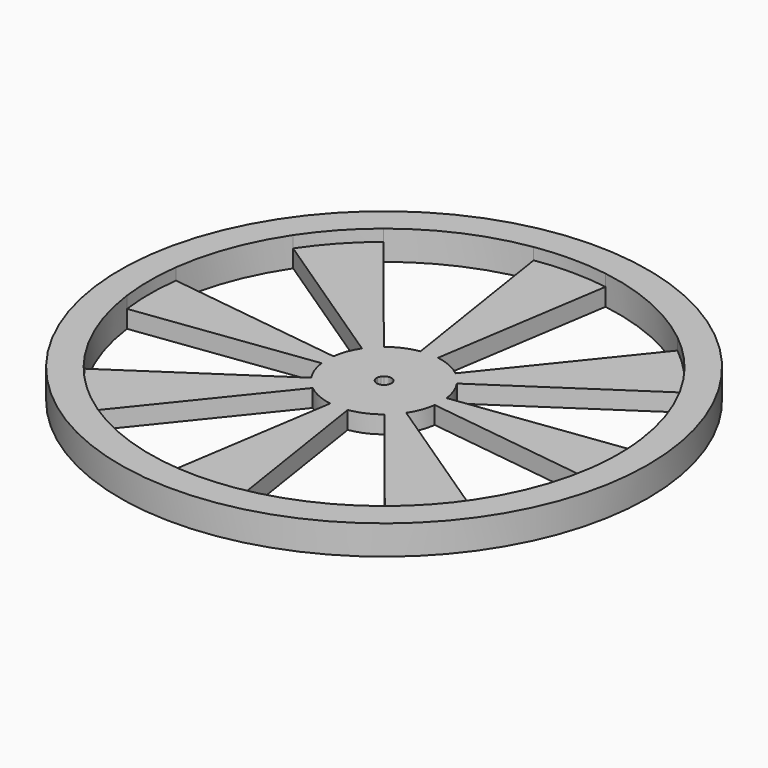
from build123d import *

# Parameters (mm, degrees)
F0_R     = 57.15
F1_DEPTH = 6.35
F2_DEPTH = 3.81


with BuildPart() as f1:
    # F0 (on Top) → F1 (new body)
    with BuildSketch(Plane.XY):
        Circle(F0_R)
        with BuildLine():
            ThreePointArc((50.3653989578, 6.6307305648), (50.6912333005, 3.3224789649), (50.8, 0))
            ThreePointArc((50.8, 0), (50.6912333005, -3.3224789649), (50.3653989578, -6.6307305648))
            ThreePointArc((50.3653989578, -6.6307305648), (47.547955486, -17.8838454786), (42.2510665707, -28.2043857164))
            ThreePointArc((42.2510665707, -28.2043857164), (37.479329155, -34.2919799092), (31.8386895146, -39.5845658053))
            ThreePointArc((31.8386895146, -39.5845658053), (20.505293032, -46.4776608455), (7.7737455542, -50.2016820441))
            ThreePointArc((7.7737455542, -50.2016820441), (0, -50.8), (-7.7737455542, -50.2016820441))
            ThreePointArc((-7.7737455542, -50.2016820441), (-20.505293032, -46.4776608455), (-31.8386895146, -39.5845658053))
            ThreePointArc((-31.8386895146, -39.5845658053), (-37.479329155, -34.2919799092), (-42.2510665707, -28.2043857164))
            ThreePointArc((-42.2510665707, -28.2043857164), (-47.547955486, -17.8838454786), (-50.3653989578, -6.6307305648))
            ThreePointArc((-50.3653989578, -6.6307305648), (-50.8, 0), (-50.3653989578, 6.6307305648))
            ThreePointArc((-50.3653989578, 6.6307305648), (-47.547955486, 17.8838454786), (-42.2510665707, 28.2043857164))
            ThreePointArc((-42.2510665707, 28.2043857164), (-37.479329155, 34.2919799092), (-31.8386895146, 39.5845658053))
            ThreePointArc((-31.8386895146, 39.5845658053), (-20.505293032, 46.4776608455), (-7.7737455542, 50.2016820441))
            ThreePointArc((-7.7737455542, 50.2016820441), (0, 50.8), (7.7737455542, 50.2016820441))
            ThreePointArc((7.7737455542, 50.2016820441), (20.505293032, 46.4776608455), (31.8386895146, 39.5845658053))
            ThreePointArc((31.8386895146, 39.5845658053), (37.479329155, 34.2919799092), (42.2510665707, 28.2043857164))
            ThreePointArc((42.2510665707, 28.2043857164), (47.547955486, 17.8838454786), (50.3653989578, 6.6307305648))
        make_face(mode=Mode.SUBTRACT)
    extrude(amount=F1_DEPTH)

    # F0 (on Top) → F2 (join)
    with BuildSketch(Plane.XY):
        Circle(F0_R)
        with BuildLine():
            ThreePointArc((50.3653989578, 6.6307305648), (50.6912333005, 3.3224789649), (50.8, 0))
            ThreePointArc((50.8, 0), (50.6912333005, -3.3224789649), (50.3653989578, -6.6307305648))
            ThreePointArc((50.3653989578, -6.6307305648), (47.547955486, -17.8838454786), (42.2510665707, -28.2043857164))
            ThreePointArc((42.2510665707, -28.2043857164), (37.479329155, -34.2919799092), (31.8386895146, -39.5845658053))
            ThreePointArc((31.8386895146, -39.5845658053), (20.505293032, -46.4776608455), (7.7737455542, -50.2016820441))
            ThreePointArc((7.7737455542, -50.2016820441), (0, -50.8), (-7.7737455542, -50.2016820441))
            ThreePointArc((-7.7737455542, -50.2016820441), (-20.505293032, -46.4776608455), (-31.8386895146, -39.5845658053))
            ThreePointArc((-31.8386895146, -39.5845658053), (-37.479329155, -34.2919799092), (-42.2510665707, -28.2043857164))
            ThreePointArc((-42.2510665707, -28.2043857164), (-47.547955486, -17.8838454786), (-50.3653989578, -6.6307305648))
            ThreePointArc((-50.3653989578, -6.6307305648), (-50.8, 0), (-50.3653989578, 6.6307305648))
            ThreePointArc((-50.3653989578, 6.6307305648), (-47.547955486, 17.8838454786), (-42.2510665707, 28.2043857164))
            ThreePointArc((-42.2510665707, 28.2043857164), (-37.479329155, 34.2919799092), (-31.8386895146, 39.5845658053))
            ThreePointArc((-31.8386895146, 39.5845658053), (-20.505293032, 46.4776608455), (-7.7737455542, 50.2016820441))
            ThreePointArc((-7.7737455542, 50.2016820441), (0, 50.8), (7.7737455542, 50.2016820441))
            ThreePointArc((7.7737455542, 50.2016820441), (20.505293032, 46.4776608455), (31.8386895146, 39.5845658053))
            ThreePointArc((31.8386895146, 39.5845658053), (37.479329155, 34.2919799092), (42.2510665707, 28.2043857164))
            ThreePointArc((42.2510665707, 28.2043857164), (47.547955486, 17.8838454786), (50.3653989578, 6.6307305648))
        make_face(mode=Mode.SUBTRACT)
        with BuildLine():
            Line((-7.7491279332, 9.6343746957), (-31.8386895146, 39.5845658053))
            ThreePointArc((-31.8386895146, 39.5845658053), (-37.479329155, 34.2919799092), (-42.2510665707, 28.2043857164))
            Line((-42.2510665707, 28.2043857164), (-10.2833667202, 6.8645850858))
            ThreePointArc((-10.2833667202, 6.8645850858), (-9.1219871452, 8.3462272929), (-7.7491279332, 9.6343746957))
        make_face()
        with BuildLine():
            Line((1.8920297832, 12.2184443691), (7.7737455542, 50.2016820441))
            ThreePointArc((7.7737455542, 50.2016820441), (0, 50.8), (-7.7737455542, 50.2016820441))
            Line((-7.7737455542, 50.2016820441), (-1.8920297832, 12.2184443691))
            ThreePointArc((-1.8920297832, 12.2184443691), (0, 12.3640672718), (1.8920297832, 12.2184443691))
        make_face()
        with BuildLine():
            Line((10.2833667202, 6.8645850858), (42.2510665707, 28.2043857164))
            ThreePointArc((42.2510665707, 28.2043857164), (37.479329155, 34.2919799092), (31.8386895146, 39.5845658053))
            Line((31.8386895146, 39.5845658053), (7.7491279332, 9.6343746957))
            ThreePointArc((7.7491279332, 9.6343746957), (9.1219871452, 8.3462272929), (10.2833667202, 6.8645850858))
        make_face()
        with BuildLine():
            ThreePointArc((50.3653989578, -6.6307305648), (50.6912333005, -3.3224789649), (50.8, 0))
            ThreePointArc((50.8, 0), (50.6912333005, 3.3224789649), (50.3653989578, 6.6307305648))
            Line((50.3653989578, 6.6307305648), (12.2582909623, 1.6138346213))
            ThreePointArc((12.2582909623, 1.6138346213), (12.3375948547, 0.8086486896), (12.3640672718, 0))
            ThreePointArc((12.3640672718, 0), (12.3375948547, -0.8086486896), (12.2582909623, -1.6138346213))
            Line((12.2582909623, -1.6138346213), (50.3653989578, -6.6307305648))
        make_face()
        with BuildLine():
            ThreePointArc((31.8386895146, -39.5845658053), (37.479329155, -34.2919799092), (42.2510665707, -28.2043857164))
            Line((42.2510665707, -28.2043857164), (10.2833667202, -6.8645850858))
            ThreePointArc((10.2833667202, -6.8645850858), (9.1219871452, -8.3462272929), (7.7491279332, -9.6343746957))
            Line((7.7491279332, -9.6343746957), (31.8386895146, -39.5845658053))
        make_face()
        with BuildLine():
            ThreePointArc((-7.7737455542, -50.2016820441), (0, -50.8), (7.7737455542, -50.2016820441))
            Line((7.7737455542, -50.2016820441), (1.8920297832, -12.2184443691))
            ThreePointArc((1.8920297832, -12.2184443691), (0, -12.3640672718), (-1.8920297832, -12.2184443691))
            Line((-1.8920297832, -12.2184443691), (-7.7737455542, -50.2016820441))
        make_face()
        with BuildLine():
            Line((-31.8386895146, -39.5845658053), (-7.7491279332, -9.6343746957))
            ThreePointArc((-7.7491279332, -9.6343746957), (-9.1219871452, -8.3462272929), (-10.2833667202, -6.8645850858))
            Line((-10.2833667202, -6.8645850858), (-42.2510665707, -28.2043857164))
            ThreePointArc((-42.2510665707, -28.2043857164), (-37.479329155, -34.2919799092), (-31.8386895146, -39.5845658053))
        make_face()
        with BuildLine():
            ThreePointArc((-12.2582909623, -1.6138346213), (-12.3640672718, 0), (-12.2582909623, 1.6138346213))
            Line((-12.2582909623, 1.6138346213), (-50.3653989578, 6.6307305648))
            ThreePointArc((-50.3653989578, 6.6307305648), (-50.8, 0), (-50.3653989578, -6.6307305648))
            Line((-50.3653989578, -6.6307305648), (-12.2582909623, -1.6138346213))
        make_face()
        with BuildLine():
            ThreePointArc((1.8920297832, -12.2184443691), (4.9907248519, -11.3120654592), (7.7491279332, -9.6343746957))
            Line((7.7491279332, -9.6343746957), (0.9949590473, -1.2370176814))
            ThreePointArc((0.9949590473, -1.2370176814), (0.6407904073, -1.4524269014), (0.2429295486, -1.5688025639))
            Line((0.2429295486, -1.5688025639), (1.8920297832, -12.2184443691))
        make_face()
        with BuildLine():
            ThreePointArc((10.2833667202, -6.8645850858), (11.5725614225, -4.3526982003), (12.2582909623, -1.6138346213))
            Line((12.2582909623, -1.6138346213), (1.5739187174, -0.2072103301))
            ThreePointArc((1.5739187174, -0.2072103301), (1.4858736089, -0.5588701712), (1.3203458303, -0.8813870536))
            Line((1.3203458303, -0.8813870536), (10.2833667202, -6.8645850858))
        make_face()
        with BuildLine():
            Line((1.5739187174, 0.2072103301), (12.2582909623, 1.6138346213))
            ThreePointArc((12.2582909623, 1.6138346213), (11.5725614225, 4.3526982003), (10.2833667202, 6.8645850858))
            Line((10.2833667202, 6.8645850858), (1.3203458303, 0.8813870536))
            ThreePointArc((1.3203458303, 0.8813870536), (1.4858736089, 0.5588701712), (1.5739187174, 0.2072103301))
        make_face()
        with BuildLine():
            Line((0.9949590473, 1.2370176814), (7.7491279332, 9.6343746957))
            ThreePointArc((7.7491279332, 9.6343746957), (4.9907248519, 11.3120654592), (1.8920297832, 12.2184443691))
            Line((1.8920297832, 12.2184443691), (0.2429295486, 1.5688025639))
            ThreePointArc((0.2429295486, 1.5688025639), (0.6407904073, 1.4524269014), (0.9949590473, 1.2370176814))
        make_face()
        with BuildLine():
            ThreePointArc((-0.9949590473, 1.2370176814), (-0.6407904073, 1.4524269014), (-0.2429295486, 1.5688025639))
            Line((-0.2429295486, 1.5688025639), (-1.8920297832, 12.2184443691))
            ThreePointArc((-1.8920297832, 12.2184443691), (-4.9907248519, 11.3120654592), (-7.7491279332, 9.6343746957))
            Line((-7.7491279332, 9.6343746957), (-0.9949590473, 1.2370176814))
        make_face()
        with BuildLine():
            Line((-12.2582909623, 1.6138346213), (-1.5739187174, 0.2072103301))
            ThreePointArc((-1.5739187174, 0.2072103301), (-1.4858736089, 0.5588701712), (-1.3203458303, 0.8813870536))
            Line((-1.3203458303, 0.8813870536), (-10.2833667202, 6.8645850858))
            ThreePointArc((-10.2833667202, 6.8645850858), (-11.5725614225, 4.3526982003), (-12.2582909623, 1.6138346213))
        make_face()
        with BuildLine():
            ThreePointArc((-0.2429295486, -1.5688025639), (-0.6407904073, -1.4524269014), (-0.9949590473, -1.2370176814))
            Line((-0.9949590473, -1.2370176814), (-7.7491279332, -9.6343746957))
            ThreePointArc((-7.7491279332, -9.6343746957), (-4.9907248519, -11.3120654592), (-1.8920297832, -12.2184443691))
            Line((-1.8920297832, -12.2184443691), (-0.2429295486, -1.5688025639))
        make_face()
        with BuildLine():
            Line((1.8920297832, -12.2184443691), (0.2429295486, -1.5688025639))
            ThreePointArc((0.2429295486, -1.5688025639), (0, -1.5875), (-0.2429295486, -1.5688025639))
            Line((-0.2429295486, -1.5688025639), (-1.8920297832, -12.2184443691))
            ThreePointArc((-1.8920297832, -12.2184443691), (0, -12.3640672718), (1.8920297832, -12.2184443691))
        make_face()
        with BuildLine():
            ThreePointArc((7.7491279332, -9.6343746957), (9.1219871452, -8.3462272929), (10.2833667202, -6.8645850858))
            Line((10.2833667202, -6.8645850858), (1.3203458303, -0.8813870536))
            ThreePointArc((1.3203458303, -0.8813870536), (1.1712290361, -1.0716243722), (0.9949590473, -1.2370176814))
            Line((0.9949590473, -1.2370176814), (7.7491279332, -9.6343746957))
        make_face()
        with BuildLine():
            ThreePointArc((12.3640672718, 0), (12.3375948547, 0.8086486896), (12.2582909623, 1.6138346213))
            Line((12.2582909623, 1.6138346213), (1.5739187174, 0.2072103301))
            ThreePointArc((1.5739187174, 0.2072103301), (1.5841010406, 0.1038274677), (1.5875, 0))
            ThreePointArc((1.5875, 0), (1.5841010406, -0.1038274677), (1.5739187174, -0.2072103301))
            Line((1.5739187174, -0.2072103301), (12.2582909623, -1.6138346213))
            ThreePointArc((12.2582909623, -1.6138346213), (12.3375948547, -0.8086486896), (12.3640672718, 0))
        make_face()
        with BuildLine():
            Line((1.3203458303, 0.8813870536), (10.2833667202, 6.8645850858))
            ThreePointArc((10.2833667202, 6.8645850858), (9.1219871452, 8.3462272929), (7.7491279332, 9.6343746957))
            Line((7.7491279332, 9.6343746957), (0.9949590473, 1.2370176814))
            ThreePointArc((0.9949590473, 1.2370176814), (1.1712290361, 1.0716243722), (1.3203458303, 0.8813870536))
        make_face()
        with BuildLine():
            Line((0.2429295486, 1.5688025639), (1.8920297832, 12.2184443691))
            ThreePointArc((1.8920297832, 12.2184443691), (0, 12.3640672718), (-1.8920297832, 12.2184443691))
            Line((-1.8920297832, 12.2184443691), (-0.2429295486, 1.5688025639))
            ThreePointArc((-0.2429295486, 1.5688025639), (0, 1.5875), (0.2429295486, 1.5688025639))
        make_face()
        with BuildLine():
            Line((-10.2833667202, 6.8645850858), (-1.3203458303, 0.8813870536))
            ThreePointArc((-1.3203458303, 0.8813870536), (-1.1712290361, 1.0716243722), (-0.9949590473, 1.2370176814))
            Line((-0.9949590473, 1.2370176814), (-7.7491279332, 9.6343746957))
            ThreePointArc((-7.7491279332, 9.6343746957), (-9.1219871452, 8.3462272929), (-10.2833667202, 6.8645850858))
        make_face()
        with BuildLine():
            Line((-7.7491279332, -9.6343746957), (-0.9949590473, -1.2370176814))
            ThreePointArc((-0.9949590473, -1.2370176814), (-1.1712290361, -1.0716243722), (-1.3203458303, -0.8813870536))
            Line((-1.3203458303, -0.8813870536), (-10.2833667202, -6.8645850858))
            ThreePointArc((-10.2833667202, -6.8645850858), (-9.1219871452, -8.3462272929), (-7.7491279332, -9.6343746957))
        make_face()
        with BuildLine():
            ThreePointArc((-1.5739187174, -0.2072103301), (-1.5875, 0), (-1.5739187174, 0.2072103301))
            Line((-1.5739187174, 0.2072103301), (-12.2582909623, 1.6138346213))
            ThreePointArc((-12.2582909623, 1.6138346213), (-12.3640672718, 0), (-12.2582909623, -1.6138346213))
            Line((-12.2582909623, -1.6138346213), (-1.5739187174, -0.2072103301))
        make_face()
        with BuildLine():
            Line((-10.2833667202, -6.8645850858), (-1.3203458303, -0.8813870536))
            ThreePointArc((-1.3203458303, -0.8813870536), (-1.4858736089, -0.5588701712), (-1.5739187174, -0.2072103301))
            Line((-1.5739187174, -0.2072103301), (-12.2582909623, -1.6138346213))
            ThreePointArc((-12.2582909623, -1.6138346213), (-11.5725614225, -4.3526982003), (-10.2833667202, -6.8645850858))
        make_face()
    extrude(amount=F2_DEPTH)


solid = f1.part
